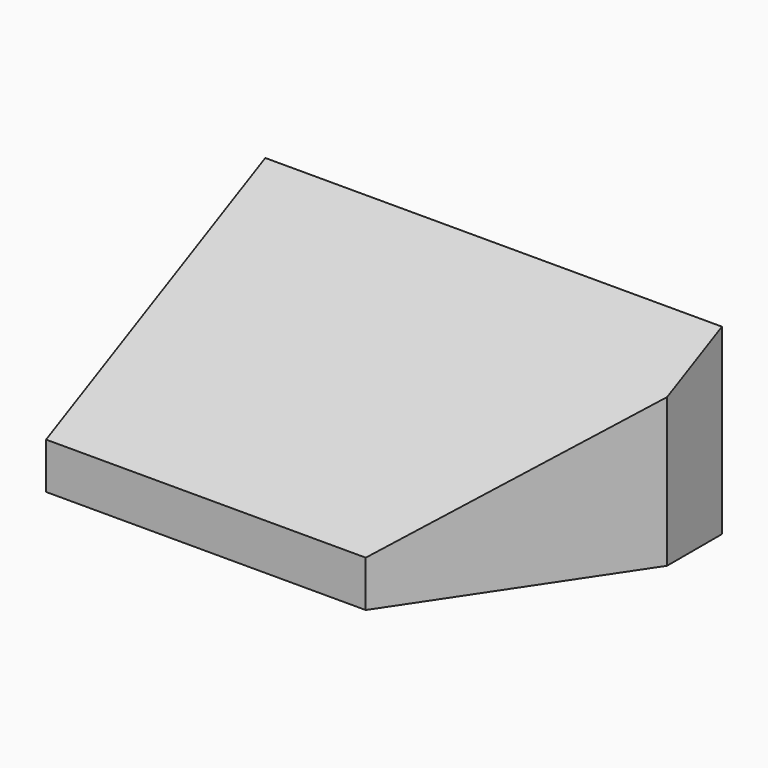
from build123d import *

# Parameters (mm, degrees)
F1_DEPTH = 40
F3_DEPTH = 101.2


with BuildPart() as f1:
    # F0 (on Top) → F1 (new body)
    with BuildSketch(Plane.XY):
        Polygon((0, 60), (0, 0), (70, 0), (100, 45), (100, 60), align=None)
    extrude(amount=F1_DEPTH)

    # F2 (on face) → F3 (cut)
    with BuildSketch(Plane(origin=(0, 0, 0), x_dir=(0, -1, 0), z_dir=(-1, 0, 0))):
        Polygon((0, 40), (-60, 40), (0, 10.097827), align=None)
    extrude(amount=-F3_DEPTH, mode=Mode.SUBTRACT)


solid = f1.part
